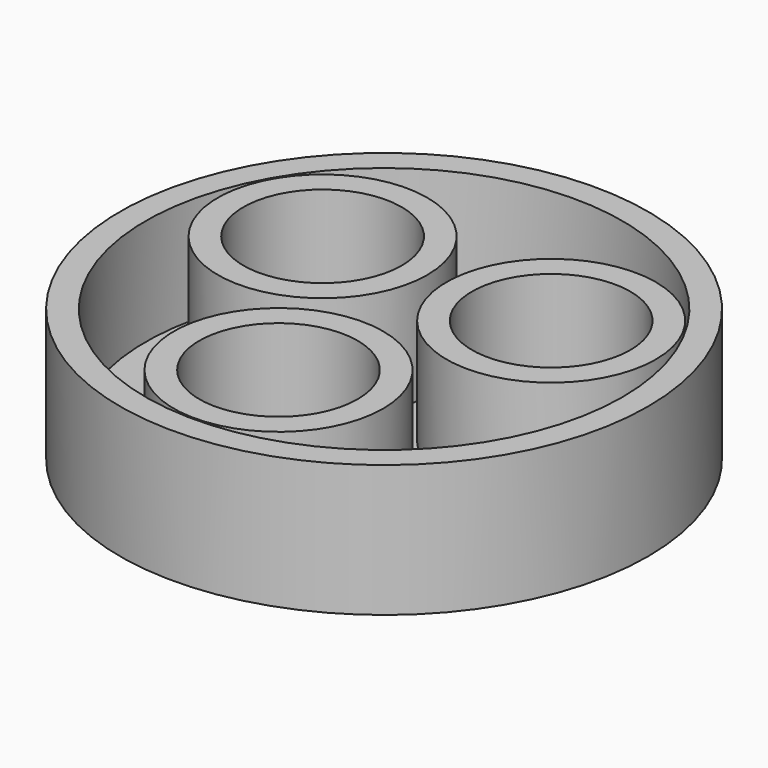
from build123d import *

# Parameters (mm, degrees)
F0_R     = 38.1
F0_R_2   = 11.43
F1_DEPTH = 19.05
F2_T     = -3.683


with BuildPart() as f1:
    # F0 (on Top) → F1 (new body)
    with BuildSketch(Plane.XY):
        Circle(F0_R)
        with Locations((0, -19.05)):
            Circle(F0_R_2, mode=Mode.SUBTRACT)
        with Locations((-16.497784, 9.525)):
            Circle(F0_R_2, mode=Mode.SUBTRACT)
        with Locations((16.497784, 9.525)):
            Circle(F0_R_2, mode=Mode.SUBTRACT)
    extrude(amount=F1_DEPTH)

    # F2
    f2_openings = [f1.faces().sort_by_distance(p)[0] for p in [
        (0, 0, 19.05),
    ]]
    offset(amount=F2_T, openings=f2_openings)


solid = f1.part
